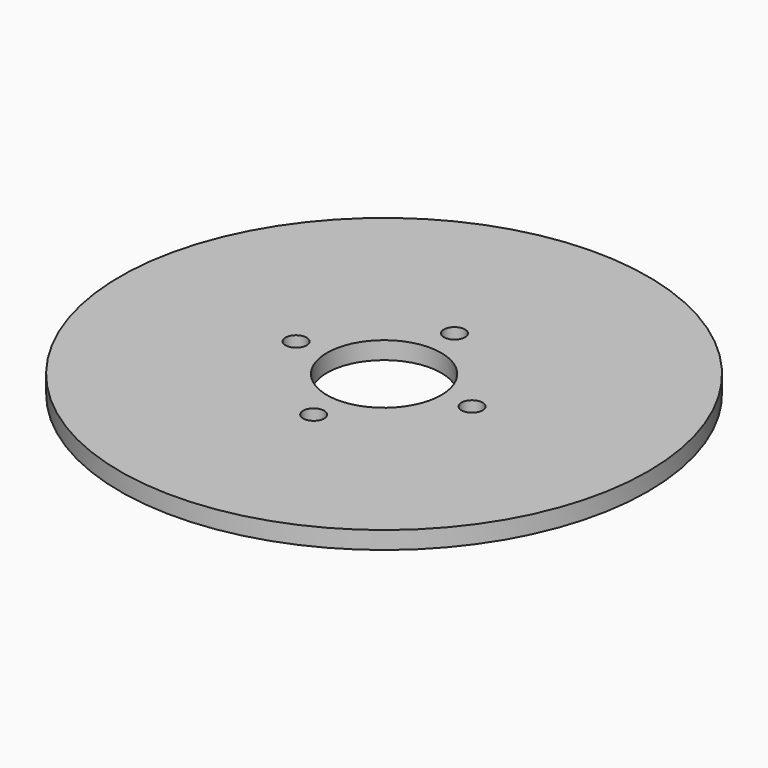
from build123d import *

# Parameters (mm, degrees)
SKETCH_R           = 150
PAD_DEPTH          = 10
SKETCH001_R        = 6
POCKET_DEPTH       = 858.764807
POLARPATTERN_COUNT = 4
SKETCH002_R        = 32.5
POCKET001_DEPTH    = 10.001


with BuildPart() as part:
    # Sketch → Pad (new body)
    with BuildSketch(Plane.XY):
        Circle(SKETCH_R)
    extrude(amount=PAD_DEPTH)

    # Sketch001 (on Face3 of Pad) → Pocket (cut, through all)
    with BuildSketch(Plane.XY.offset(10)):
        with Locations((0, 50)):
            Circle(SKETCH001_R)
    pocket = extrude(amount=-POCKET_DEPTH, mode=Mode.SUBTRACT)

    # PolarPattern: Pocket ×4 about axis
    polarpattern_axis = Axis((0, 0, 10), (0, 0, 1))
    for i in range(1, POLARPATTERN_COUNT):
        add(pocket.rotate(polarpattern_axis, i * 360 / POLARPATTERN_COUNT), mode=Mode.SUBTRACT)

    # Sketch002 (on Face3 of PolarPattern) → Pocket001 (cut, through all)
    with BuildSketch(Plane.XY.offset(10)):
        Circle(SKETCH002_R)
    extrude(amount=-POCKET001_DEPTH, mode=Mode.SUBTRACT)


solid = part.part
